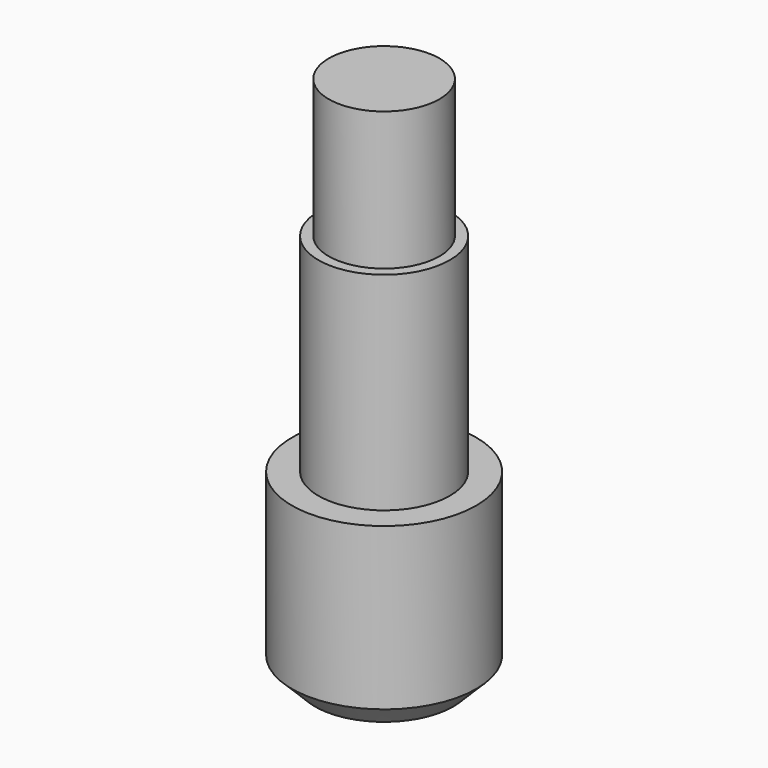
from build123d import *

# Parameters (mm, degrees)
SKETCH_R     = 4
PAD_DEPTH    = 8
SKETCH001_R  = 2.85
PAD001_DEPTH = 9
SKETCH002_R  = 2.4
PAD002_DEPTH = 6
CHAMFER_SIZE = 1


with BuildPart() as part:
    # Sketch → Pad (new body)
    with BuildSketch(Plane.XY):
        Circle(SKETCH_R)
    extrude(amount=PAD_DEPTH)

    # Sketch001 (on Face3 of Pad) → Pad001 (join)
    with BuildSketch(Plane.XY.offset(8)):
        Circle(SKETCH001_R)
    extrude(amount=PAD001_DEPTH)

    # Sketch002 (on Face5 of Pad001) → Pad002 (join)
    with BuildSketch(Plane.XY.offset(17)):
        Circle(SKETCH002_R)
    extrude(amount=PAD002_DEPTH)

    # Chamfer
    chamfer_edges = [part.edges().sort_by_distance(p)[0] for p in [
        (-4, 0, 0),
    ]]
    chamfer(chamfer_edges, length=CHAMFER_SIZE)


solid = part.part
